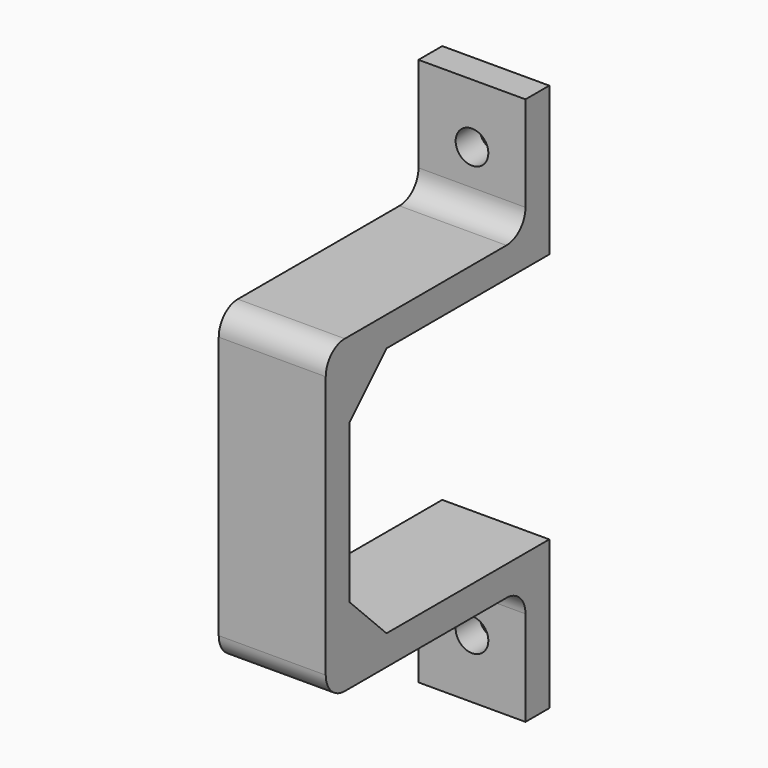
from build123d import *

# Parameters (mm, degrees)
F1_DEPTH = 8
F3_DEPTH = 10
F4_R     = 2.75
F5_DEPTH = 25
F6_R     = 4


with BuildPart() as f1:
    # F0 (on Right) → F1 (new body)
    with BuildSketch(Plane.YZ):
        Polygon((0, 26.1), (0, 0), (0, -26.1), (42, -26.1), (42, -46.1), (47, -46.1), (47, -21.1), (9.242641, -21.1), (5, -16.857359), (5, 0), (5, 16.857359), (9.242641, 21.1), (47, 21.1), (47, 46.1), (42, 46.1), (42, 26.1), align=None)
    extrude(amount=F1_DEPTH)

    # F2 (on face) → F3 (join)
    with BuildSketch(Plane.YZ.offset(8)):
        Polygon((5, 13.321825), (12.778175, 21.1), (9.242641, 21.1), (5, 16.857359), align=None)
        Polygon((0, 26.1), (0, -26.1), (42, -26.1), (42, -46.1), (47, -46.1), (47, -21.1), (12.778175, -21.1), (9.242641, -21.1), (5, -16.857359), (5, -13.321825), (5, 0), (5, 13.321825), (5, 16.857359), (9.242641, 21.1), (12.778175, 21.1), (47, 21.1), (47, 46.1), (42, 46.1), (42, 26.1), align=None)
        Polygon((9.242641, -21.1), (12.778175, -21.1), (5, -13.321825), (5, -16.857359), align=None)
    extrude(amount=F3_DEPTH)

    # F4 (on face) → F5 (cut)
    with BuildSketch(Plane.XZ.offset(-42)):
        with Locations((9, 36.1)):
            Circle(F4_R)
        with Locations((9, -36.1)):
            Circle(F4_R)
    extrude(amount=-F5_DEPTH, mode=Mode.SUBTRACT)

    # F6
    f6_edges = [f1.edges().sort_by_distance(p)[0] for p in [
        (9, 0, 26.1),
        (9, 0, -26.1),
        (9, 42, -26.1),
        (9, 42, 26.1),
    ]]
    fillet(f6_edges, radius=F6_R)


solid = f1.part
